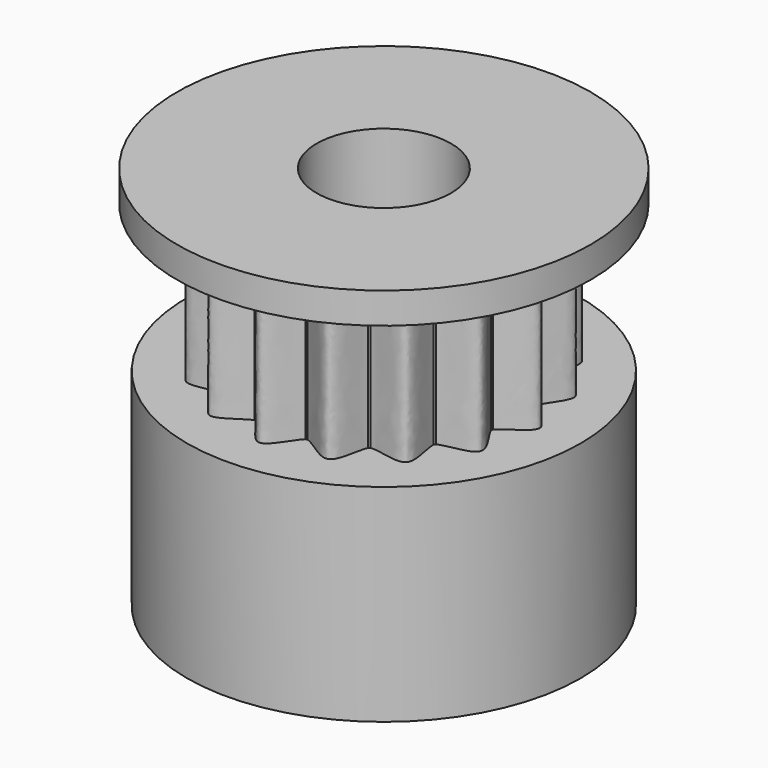
from build123d import *

# Parameters (mm, degrees)
F0_R      = 4.0386
F1_DEPTH  = 10
F3_DEPTH  = 7.112
F5_COUNT  = 16
F6_R      = 10
F7_DEPTH  = 1.5
F8_R      = 3.25
F9_DEPTH  = 18.613
F10_R     = 9.525
F11_DEPTH = 10
F13_DEPTH = 18.613


with BuildPart() as f1:
    # F0 (on Top) → F1 (new body)
    with BuildSketch(Plane.XY):
        Circle(F0_R)
    extrude(amount=F1_DEPTH)

    # F2 (on face) → F3 (join)
    with BuildSketch(Plane.XY.offset(10)):
        with BuildLine():
            ThreePointArc((-1.190625, 6.2310172662), (-4.0429034566, -4.8885678581), (6.34375, 0))
            ThreePointArc((6.34375, 0), (4.8885678581, 4.0429034566), (1.190625, 6.2310172662))
            ThreePointArc((1.190625, 6.2310172662), (0, 6.34375), (-1.190625, 6.2310172662))
        make_face()
        with BuildLine():
            ThreePointArc((-1.190625, 6.2310172662), (0, 6.34375), (1.190625, 6.2310172662))
            add(Edge.make_bspline(
                [(-1.190625, 6.2310172662), (-0.8188678232, 6.6074045675), (0.0037249265, 8.4795309027), (0.8114179702, 6.571033627), (1.190625, 6.2310172662)],
                knots=[0, 0, 0, 0, 0.5, 1, 1, 1, 1], degree=3))
        make_face()
    extrude(amount=F3_DEPTH)

    # F5: F1 ×16 about axis
    f5_axis = Axis((0, 0, 16.2677839398), (0, 0, 1))


with BuildPart() as f1_1:
    add(f1.part)
    for i in range(1, F5_COUNT):
        add(f1.part.rotate(f5_axis, i * 360 / F5_COUNT))

    # F6 (on face) → F7 (join)
    with BuildSketch(Plane.XY.offset(17.112)):
        Circle(F6_R)
    extrude(amount=F7_DEPTH)

    # F8 (on face) → F9 (cut, through all)
    with BuildSketch(Plane.XY.offset(18.612)):
        Circle(F8_R)
    extrude(amount=-F9_DEPTH, mode=Mode.SUBTRACT)

    # F10 (on face) → F11 (join, through all)
    with BuildSketch(Plane(origin=(0, 0, 10), x_dir=(1, 0, 0), z_dir=(0, 0, -1))):
        Circle(F10_R)
    extrude(amount=F11_DEPTH)

    # F12 (on face) → F13 (cut, through all)
    with BuildSketch(Plane.XY.offset(18.612)):
        with BuildLine():
            Line((1.6848453935, 2.54), (-1.6848453935, 2.54))
            ThreePointArc((-1.6848453935, 2.54), (0, -3.048), (1.6848453935, 2.54))
        make_face()
    extrude(amount=-F13_DEPTH, mode=Mode.SUBTRACT)


solid = f1_1.part
